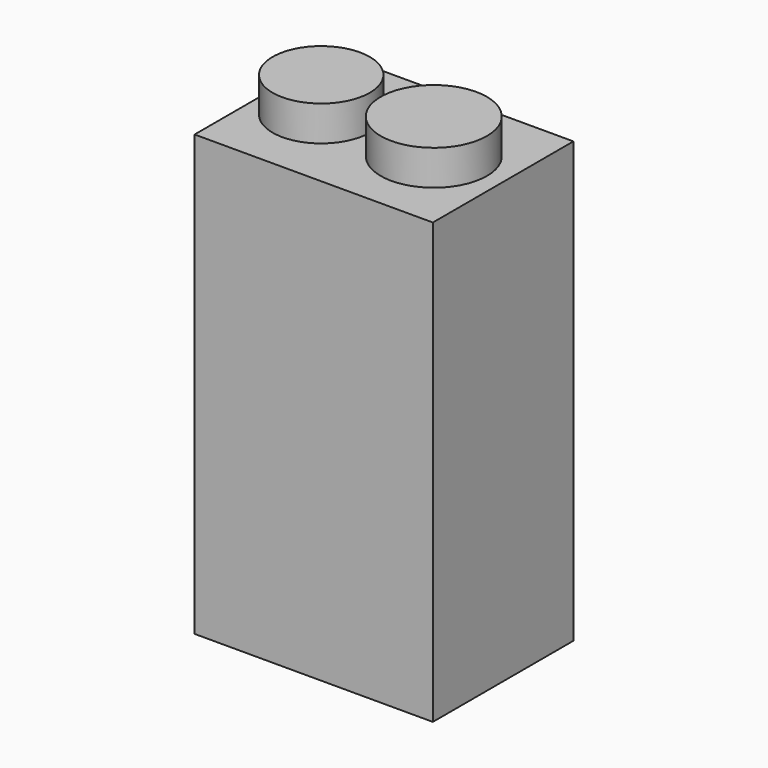
from build123d import *

# Parameters (mm, degrees)
F0_W     = 17.2232873738
F0_H     = 31.7847952247
F1_DEPTH = 12.7
F2_R     = 3.8401875165
F2_R_2   = 3.5142464727
F3_DEPTH = 2.54


with BuildPart() as f1:
    # F0 (on Front) → F1 (new body)
    with BuildSketch(Plane.XZ):
        with Locations((-24.8954799026, 15.8923976123)):
            Rectangle(F0_W, F0_H)
    extrude(amount=F1_DEPTH)

    # F2 (on face) → F3 (join)
    with BuildSketch(Plane.XY.offset(31.7847952247)):
        with Locations((-21.294247359, -6.35)):
            Circle(F2_R)
        with Locations((-29.4361654669, -6.35)):
            Circle(F2_R_2)
    extrude(amount=F3_DEPTH)


solid = f1.part
